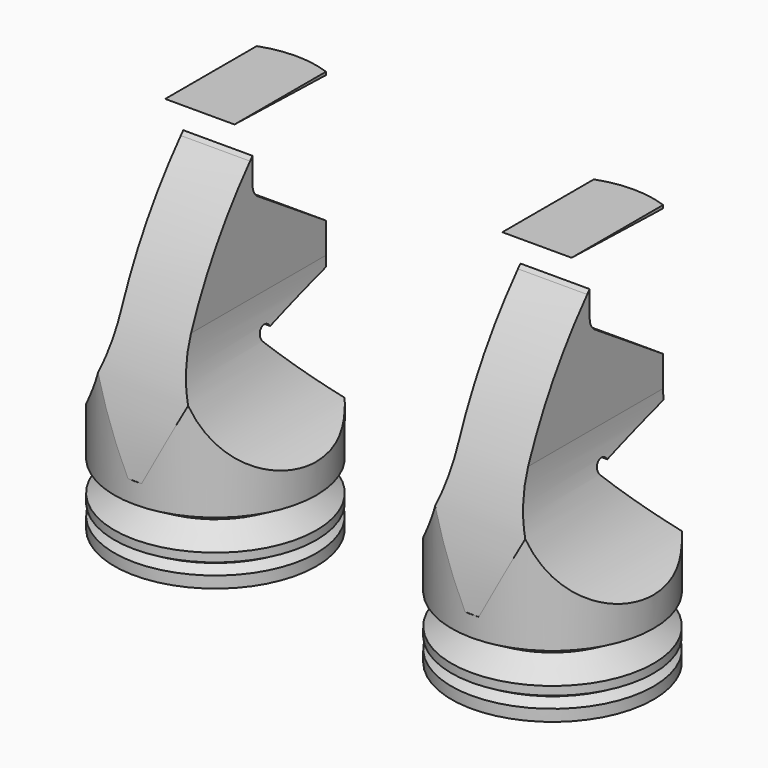
from build123d import *

# Parameters (mm, degrees)
F0_R     = 17.5
F1_DEPTH = 65
F6_DEPTH = 46
F7_DEPTH = 44.5


with BuildPart() as f1:
    # F0 (on Top) → F1 (new body)
    with BuildSketch(Plane.XY):
        Circle(F0_R)
    extrude(amount=F1_DEPTH)

    # F4 (on Right) → F5 (revolve, cut)
    with BuildSketch(Plane.YZ):
        Polygon((-17.5, 10.8363904687), (-17.5, 5.4887563456), (-12.8688129993, 8.1625734071), align=None)
        Polygon((-17.5, 4), (-17.5, 2), (-15.7679491924, 3), align=None)
    revolve(axis=Axis((0, 0, 5.4887563456), (0, 0, 1)), mode=Mode.SUBTRACT)

    # F3 (on Right) → F6 (cut, symmetric)
    with BuildSketch(Plane.YZ):
        with BuildLine():
            Line((17.5, 60), (17.5, 41.5966427555))
            Line((17.5, 41.5966427555), (17.5, 35.5966427555))
            Line((17.5, 35.5966427555), (17.5, 13.2902283221))
            Line((17.5, 13.2902283221), (29.2848197293, 13.2902283221))
            Line((29.2848197293, 13.2902283221), (30.5306962925, 59.9034927115))
            Line((30.5306962925, 59.9034927115), (30.6426123019, 64.0907217571))
            Line((30.6426123019, 64.0907217571), (3.6818133187, 64.8113283917))
            Line((3.6818133187, 64.8113283917), (-24.1178555876, 65.5543562918))
            Line((-24.1178555876, 65.5543562918), (-43.1358278194, 14.3883252698))
            Line((-43.1358278194, 14.3883252698), (-17.4601649007, 14.3883252698))
            ThreePointArc((-17.4601649007, 14.3883252698), (-12.5038537369, 37.7221042936), (0, 58.0367272439))
            Line((0, 58.0367272439), (0, 60))
            Line((0, 60), (17.5, 60))
        make_face()
        with BuildLine():
            Line((1.6737386102, 51.9939161031), (17.5, 41.5966427555))
            Line((17.5, 41.5966427555), (17.5, 60))
            Line((17.5, 60), (0, 60))
            Line((0, 60), (0, 58.0367272439))
            ThreePointArc((0, 58.0367272439), (0.2669355041, 58.3375140737), (0.5355946304, 58.636762389))
            Line((0.5355946304, 58.636762389), (0.5464213341, 54.0833519454))
            ThreePointArc((0.5464213341, 54.0833519454), (0.846227387, 52.8962771395), (1.6737386102, 51.9939161031))
        make_face()
        with BuildLine():
            Line((17.5, 13.2902283221), (17.5, 35.5966427555))
            Line((17.5, 35.5966427555), (3.6121602348, 31.6124336523))
            ThreePointArc((3.6121602348, 31.6124336523), (2.9967551381, 32.1831016605), (2.1591422613, 32.2359228411))
            ThreePointArc((2.1591422613, 32.2359228411), (1.2984529484, 31.3653481623), (1.5939253097, 30.1773319803))
            Line((1.5939253097, 30.1773319803), (17.5, 13.2902283221))
        make_face()
    extrude(amount=F6_DEPTH, both=True, mode=Mode.SUBTRACT)

    # F2 (on Front) → F7 (cut, symmetric)
    with BuildSketch(Plane.XZ):
        with BuildLine():
            ThreePointArc((30.3451661021, 61.9914223798), (13.0923082525, 54.444614535), (6, 37))
            ThreePointArc((6, 37), (31, 12), (56, 37))
            ThreePointArc((56, 37), (48.444614535, 54.9076917475), (30.3451661021, 61.9914223798))
        make_face()
        with BuildLine():
            Line((6, 65), (6, 37))
            ThreePointArc((6, 37), (13.0923082525, 54.444614535), (30.3451661021, 61.9914223798))
            Line((30.3451661021, 61.9914223798), (30.3451661021, 65))
            Line((30.3451661021, 65), (6, 65))
        make_face()
        with BuildLine():
            ThreePointArc((-32.0651344955, 61.9772994638), (-13.7030112792, 55.0503235759), (-6, 37))
            Line((-6, 37), (-6, 65))
            Line((-6, 65), (-32.0651344955, 65))
            Line((-32.0651344955, 65), (-32.0651344955, 61.9772994638))
        make_face()
        with BuildLine():
            ThreePointArc((-32.0651344955, 61.9772994638), (-48.2969887208, 18.9496764241), (-6, 37))
            ThreePointArc((-6, 37), (-13.7030112792, 55.0503235759), (-32.0651344955, 61.9772994638))
        make_face()
    extrude(amount=F7_DEPTH, both=True, mode=Mode.SUBTRACT)


with BuildPart() as f8_1:
    # F8: copy of F1
    add(f1.part)


with BuildPart() as f10_1:
    # F10: copy of F1
    add(f1.part)


with BuildPart() as f11_1:
    # F11: copy of F1
    add(f1.part.moved(Location((60, -2, 0))))


solid = Compound([f1.part, f11_1.part])
